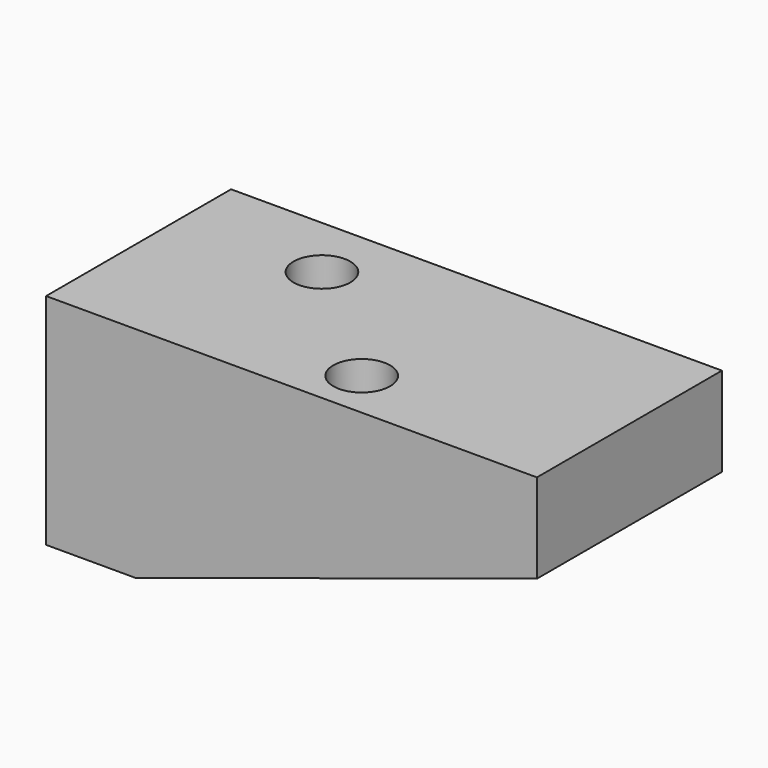
from build123d import *

# Parameters (mm, degrees)
F1_DEPTH = 57
F3_D     = 14
F3_DEPTH = 16
F3_TIP   = 4.2060243332


with BuildPart() as f1:
    # F0 (on Front) → F1 (new body)
    with BuildSketch(Plane.XZ):
        Polygon((121, 54), (0, 54), (0, 0), (22, 0), (121, 32), align=None)
    extrude(amount=F1_DEPTH)

    # F3
    with Locations(Plane.XY.offset(54)):
        with Locations((35.2015122771, -16), (68.2015122771, -45)):
            Hole(F3_D / 2, depth=F3_DEPTH)
            with Locations((0, 0, -(F3_DEPTH + F3_TIP / 2))):  # 118° drill point
                Cone(0, F3_D / 2, F3_TIP, mode=Mode.SUBTRACT)


solid = f1.part
